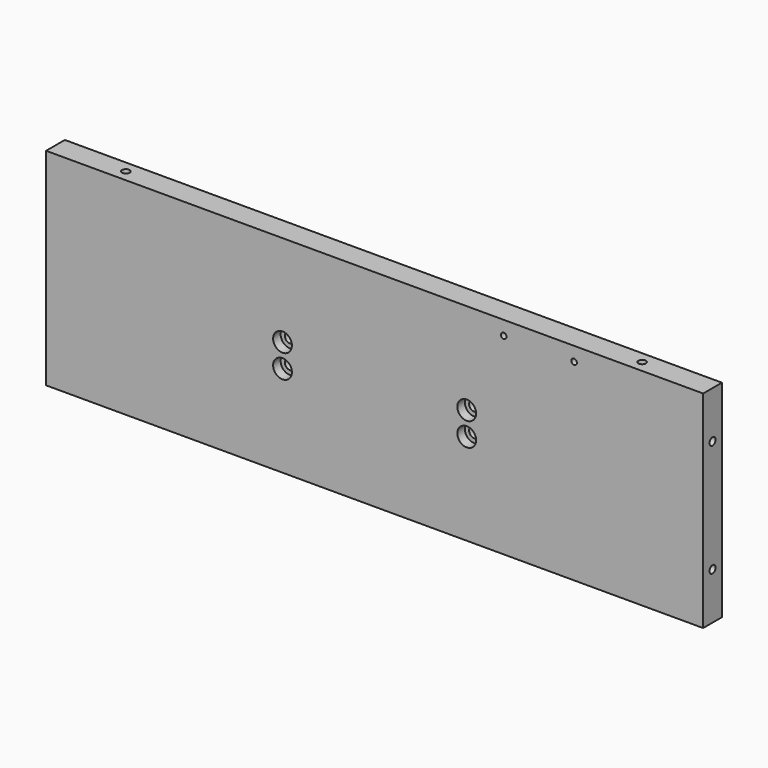
from build123d import *

# Parameters (mm, degrees)
F0_W           = 280
F0_H           = 88
F1_DEPTH       = 5
F6_D           = 3.2
F6_DEPTH       = 17.25
F6_TIP         = 0.9613769904
F6_ON_F5_D     = 3.2
F6_ON_F5_DEPTH = 17.25
F6_ON_F5_TIP   = 0.9613769904
F6_ON_F3_D     = 3.2
F6_ON_F3_DEPTH = 17.25
F6_ON_F3_TIP   = 0.9613769904
F6_ON_F2_D     = 3.2
F6_ON_F2_DEPTH = 17.25
F6_ON_F2_TIP   = 0.9613769904
F8_D           = 4.4
F8_CBORE_D     = 8
F8_CBORE_DEPTH = 4
F10_D          = 2.4


with BuildPart() as f1:
    # F0 (on Front) → F1 (new body, symmetric)
    with BuildSketch(Plane.XZ):
        Rectangle(F0_W, F0_H)
    extrude(amount=F1_DEPTH, both=True)

    # F6
    with Locations(Plane.XY.offset(44)):
        with Locations((110, 0), (-110, 0)):
            Hole(F6_D / 2, depth=F6_DEPTH)
            with Locations((0, 0, -(F6_DEPTH + F6_TIP / 2))):  # 118° drill point
                Cone(0, F6_D / 2, F6_TIP, mode=Mode.SUBTRACT)

    # F6 on F5
    with Locations(Plane(origin=(0, 0, -44), x_dir=(1, 0, 0), z_dir=(0, 0, -1))):
        with Locations((-110, 0), (110, 0)):
            Hole(F6_ON_F5_D / 2, depth=F6_ON_F5_DEPTH)
            with Locations((0, 0, -(F6_ON_F5_DEPTH + F6_ON_F5_TIP / 2))):  # 118° drill point
                Cone(0, F6_ON_F5_D / 2, F6_ON_F5_TIP, mode=Mode.SUBTRACT)

    # F6 on F3
    with Locations(Plane.YZ.offset(140)):
        with Locations((0, -24), (0, 24)):
            Hole(F6_ON_F3_D / 2, depth=F6_ON_F3_DEPTH)
            with Locations((0, 0, -(F6_ON_F3_DEPTH + F6_ON_F3_TIP / 2))):  # 118° drill point
                Cone(0, F6_ON_F3_D / 2, F6_ON_F3_TIP, mode=Mode.SUBTRACT)

    # F6 on F2
    with Locations(Plane(origin=(-140, 0, 0), x_dir=(0, -1, 0), z_dir=(-1, 0, 0))):
        with Locations((0, -24), (0, 24)):
            Hole(F6_ON_F2_D / 2, depth=F6_ON_F2_DEPTH)
            with Locations((0, 0, -(F6_ON_F2_DEPTH + F6_ON_F2_TIP / 2))):  # 118° drill point
                Cone(0, F6_ON_F2_D / 2, F6_ON_F2_TIP, mode=Mode.SUBTRACT)

    # F8 (through all)
    with Locations(Plane.XZ.offset(5)):
        with Locations((-39.25, 5), (39.25, 5), (-39.25, -5), (39.25, -5)):
            CounterBoreHole(F8_D / 2, F8_CBORE_D / 2, F8_CBORE_DEPTH)

    # F10 (through all)
    with Locations(Plane.XZ.offset(5)):
        with Locations((85, 38), (55, 38)):
            Hole(F10_D / 2)


solid = f1.part
